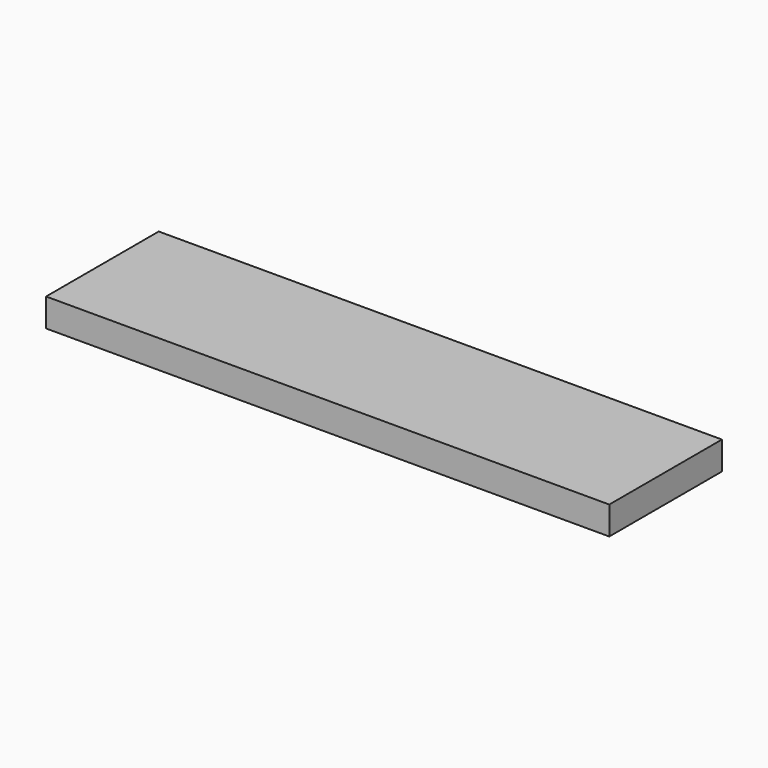
from build123d import *

# Parameters (mm, degrees)
SKETCH_W  = 254
SKETCH_H  = 63.5
PAD_DEPTH = 12.7


with BuildPart() as part:
    # Sketch → Pad (new body)
    with BuildSketch(Plane.XY):
        with Locations((0, 28.921573)):
            Rectangle(SKETCH_W, SKETCH_H)
    extrude(amount=PAD_DEPTH)


solid = part.part
